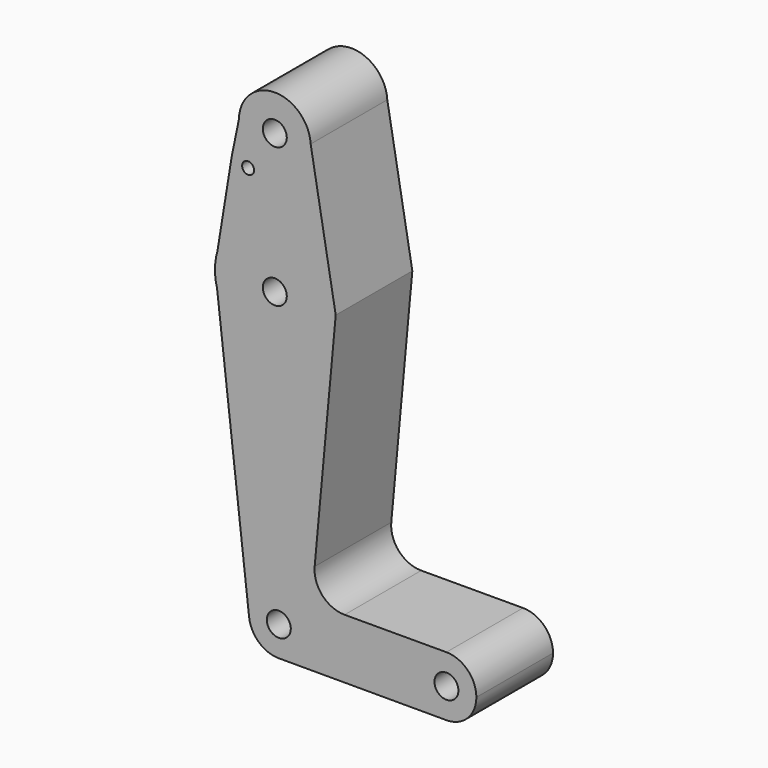
from build123d import *

# Parameters (mm, degrees)
F0_R     = 3.175
F0_R_2   = 1.5875
F1_DEPTH = 25.4


with BuildPart() as f1:
    # F0 (on Front) → F1 (new body)
    with BuildSketch(Plane.XZ):
        with BuildLine():
            ThreePointArc((-45.5007844303, 60.8080998063), (-36.0443868716, 51.1480599459), (-26.4517451449, 60.6728197642))
            ThreePointArc((-26.4517451449, 60.6728197642), (-26.4559367756, 60.9553670958), (-26.4685079784, 61.2376657484))
            ThreePointArc((-26.4685079784, 61.2376657484), (-36.1916733919, 70.1953945656), (-45.5007844303, 60.8080998063))
        make_face()
        with Locations((-35.9767451449, 60.6728197642)):
            Circle(F0_R, mode=Mode.SUBTRACT)
        with BuildLine():
            ThreePointArc((-26.4685079784, 61.2376657484), (-26.4559367756, 60.9553670958), (-26.4517451449, 60.6728197642))
            ThreePointArc((-26.4517451449, 60.6728197642), (-36.0443868716, 51.1480599459), (-45.5007844303, 60.8080998063))
            Line((-45.5007844303, 60.8080998063), (-47.403749654, 51.5325208005))
            Line((-47.403749654, 51.5325208005), (-51.2149523807, 28.0907461253))
            ThreePointArc((-51.2149523807, 28.0907461253), (-35.1027744522, 39.4905283807), (-20.341551151, 26.3884827494))
            Line((-20.341551151, 26.3884827494), (-26.4685079784, 61.2376657484))
        make_face()
        with Locations((-43.0617518723, 50.2508357167)):
            Circle(F0_R_2, mode=Mode.SUBTRACT)
        with BuildLine():
            Line((-19.828037881, 23.4676986762), (-20.341551151, 26.3884827494))
            ThreePointArc((-20.341551151, 26.3884827494), (-20.1618102785, 25.0192635513), (-20.1017451449, 23.6396041102))
            ThreePointArc((-20.1017451449, 23.6396041102), (-33.8658914705, 7.9055670642), (-51.2903967059, 19.455383649))
            Line((-51.2903967059, 19.455383649), (-42.7973810445, -54.532377427))
            ThreePointArc((-42.7973810445, -54.532377427), (-35.3650031557, -45.702636692), (-26.9741645713, -53.6271802358))
            ThreePointArc((-26.9741645713, -53.6271802358), (-29.2990044956, -59.2398403115), (-34.9116645713, -61.5646802358))
            Line((-34.9116645713, -61.5646802358), (9.5383354287, -61.5646802358))
            ThreePointArc((9.5383354287, -61.5646802358), (1.6008378972, -53.6334402767), (9.5258153508, -45.68969011))
            Line((9.5258153508, -45.68969011), (-17.482162734, -45.7322907286))
            ThreePointArc((-17.482162734, -45.7322907286), (-23.3646605609, -43.1439357934), (-25.411284965, -37.0517530563))
            Line((-25.411284965, -37.0517530563), (-19.828037881, 23.4676986762))
        make_face()
        with BuildLine():
            ThreePointArc((-20.1017451449, 23.6396041102), (-20.1618102785, 25.0192635513), (-20.341551151, 26.3884827494))
            ThreePointArc((-20.341551151, 26.3884827494), (-35.1027744522, 39.4905283807), (-51.2149523807, 28.0907461253))
            Line((-51.2149523807, 28.0907461253), (-51.8401966847, 24.2450215226))
            Line((-51.8401966847, 24.2450215226), (-51.2903967059, 19.455383649))
            ThreePointArc((-51.2903967059, 19.455383649), (-33.8658914705, 7.9055670642), (-20.1017451449, 23.6396041102))
        make_face()
        with Locations((-35.9767451449, 23.6396041102)):
            Circle(F0_R, mode=Mode.SUBTRACT)
        with BuildLine():
            Line((-51.8401966847, 24.2450215226), (-51.2149523807, 28.0907461253))
            ThreePointArc((-51.2149523807, 28.0907461253), (-51.6460046704, 26.1871383928), (-51.8401966847, 24.2450215226))
        make_face()
        with BuildLine():
            ThreePointArc((-51.8401966847, 24.2450215226), (-51.7481780912, 21.8292097278), (-51.2903967059, 19.455383649))
            Line((-51.2903967059, 19.455383649), (-51.8401966847, 24.2450215226))
        make_face()
        with BuildLine():
            ThreePointArc((-26.9741645713, -53.6271802358), (-35.3650031557, -45.702636692), (-42.7973810445, -54.532377427))
            ThreePointArc((-42.7973810445, -54.532377427), (-40.1946042617, -59.5512375007), (-34.9116645713, -61.5646802358))
            ThreePointArc((-34.9116645713, -61.5646802358), (-29.2990044956, -59.2398403115), (-26.9741645713, -53.6271802358))
        make_face()
        with Locations((-34.9116645713, -53.6271802358)):
            Circle(F0_R, mode=Mode.SUBTRACT)
        with BuildLine():
            ThreePointArc((17.4758354287, -53.6271802358), (15.1465672415, -48.0100953883), (9.5258153508, -45.68969011))
            ThreePointArc((9.5258153508, -45.68969011), (1.6008378972, -53.6334402767), (9.5383354287, -61.5646802358))
            ThreePointArc((9.5383354287, -61.5646802358), (15.1509955044, -59.2398403115), (17.4758354287, -53.6271802358))
        make_face()
        with Locations((9.5383354287, -53.6271802358)):
            Circle(F0_R, mode=Mode.SUBTRACT)
    extrude(amount=F1_DEPTH)


solid = f1.part
